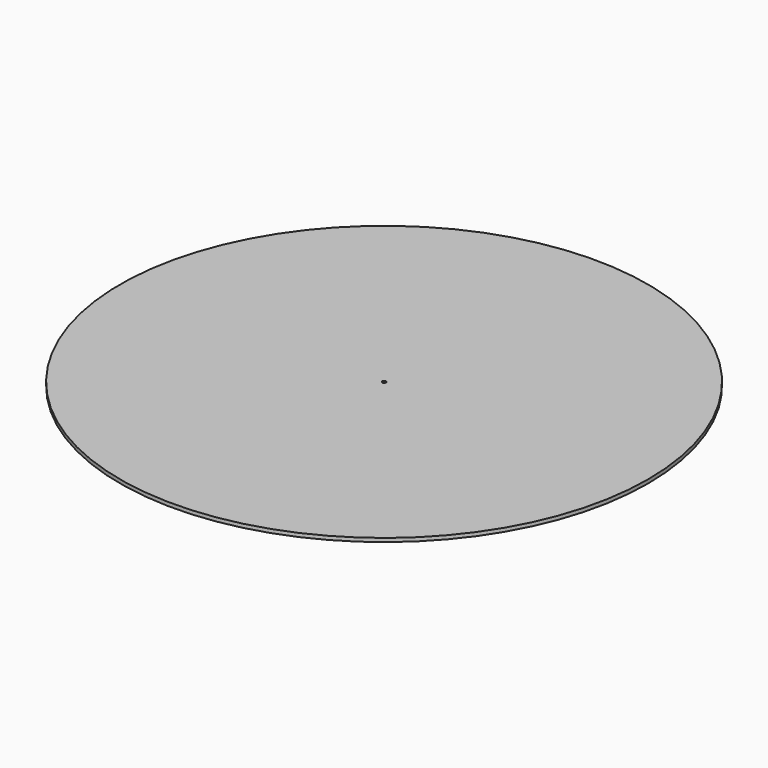
from build123d import *

# Parameters (mm, degrees)
F0_R     = 457.2
F0_R_2   = 406.4
F0_R_3   = 3.175
F1_DEPTH = 6.35


with BuildPart() as f1:
    # F0 (on Top) → F1 (new body)
    with BuildSketch(Plane.XY):
        Circle(F0_R)
        Circle(F0_R_2, mode=Mode.SUBTRACT)
        Circle(F0_R_2)
        Circle(F0_R_3, mode=Mode.SUBTRACT)
    extrude(amount=F1_DEPTH)


solid = f1.part
